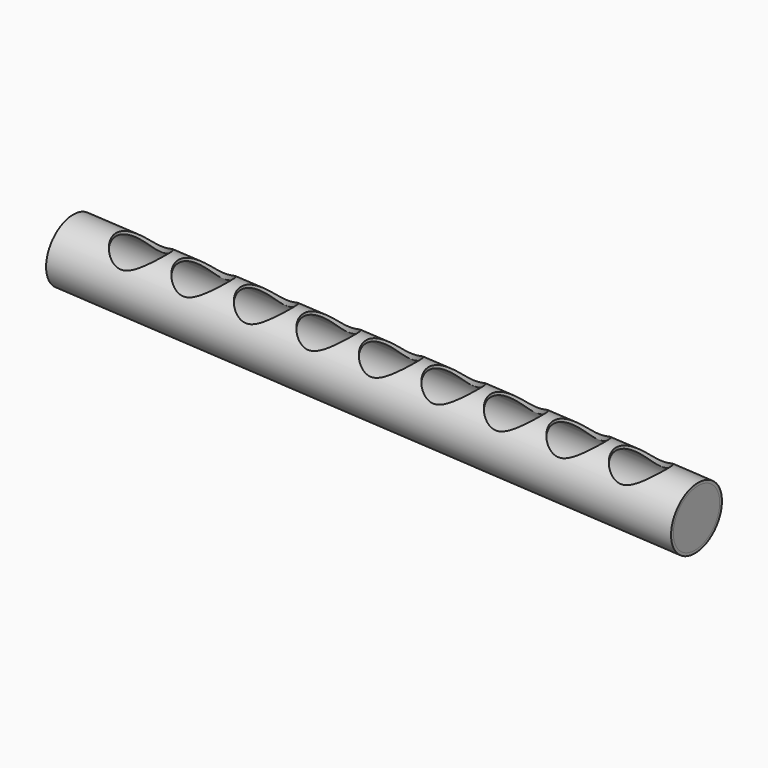
from build123d import *

# Parameters (mm, degrees)
F0_R      = 55.8000002513
F0_R_2    = 50.8
F1_DEPTH  = 1100
F3_R      = 44.45
F4_DEPTH  = 55.8010002513
F5_ANGLE  = 3
F6_R      = 50.8
F7_DEPTH  = 20
F8_R      = 53.1727124952
F9_DEPTH  = 20
F10_R     = 6.35
F11_DEPTH = 55.7245283903


with BuildPart() as f1:
    # F0 (on Right) → F1 (new body)
    with BuildSketch(Plane.YZ):
        Circle(F0_R)
        Circle(F0_R_2, mode=Mode.SUBTRACT)
    extrude(amount=-F1_DEPTH)

    # F3 (on Top) → F4 (cut, through all)
    with BuildSketch(Plane.XY):
        with Locations((-100, 0)):
            Circle(F3_R)
        with Locations((-210, 0)):
            Circle(F3_R)
        with Locations((-320, 0)):
            Circle(F3_R)
        with Locations((-430, 0)):
            Circle(F3_R)
        with Locations((-540, 0)):
            Circle(F3_R)
        with Locations((-650, 0)):
            Circle(F3_R)
        with Locations((-760, 0)):
            Circle(F3_R)
        with Locations((-870, 0)):
            Circle(F3_R)
        with Locations((-980, 0)):
            Circle(F3_R)
    extrude(amount=F4_DEPTH, mode=Mode.SUBTRACT)


with BuildPart() as f1_1:
    # F5: moved
    add(f1.part.rotate(Axis((0, -0.1610405743, 0), (0, 1, 0)), F5_ANGLE))

    # F6 (on face) → F7 (join)
    with BuildSketch(Plane(origin=(0, 0, 0), x_dir=(0, 1, 0), z_dir=(0.9986295348, 0, -0.0523359562))):
        Circle(F6_R)
    extrude(amount=-F7_DEPTH)

    # F8 (on face) → F9 (join)
    with BuildSketch(Plane(origin=(-1098.49248823, 0, 57.5695518672), x_dir=(0, -1, 0), z_dir=(-0.9986295348, 0, 0.0523359562))):
        Circle(F8_R)
    extrude(amount=-F9_DEPTH)

    # F10 (on Top) → F11 (cut, through all)
    with BuildSketch(Plane.XY):
        with Locations((-99.4943454862, 0)):
            Circle(F10_R)
    extrude(amount=-F11_DEPTH, mode=Mode.SUBTRACT)


solid = f1_1.part
